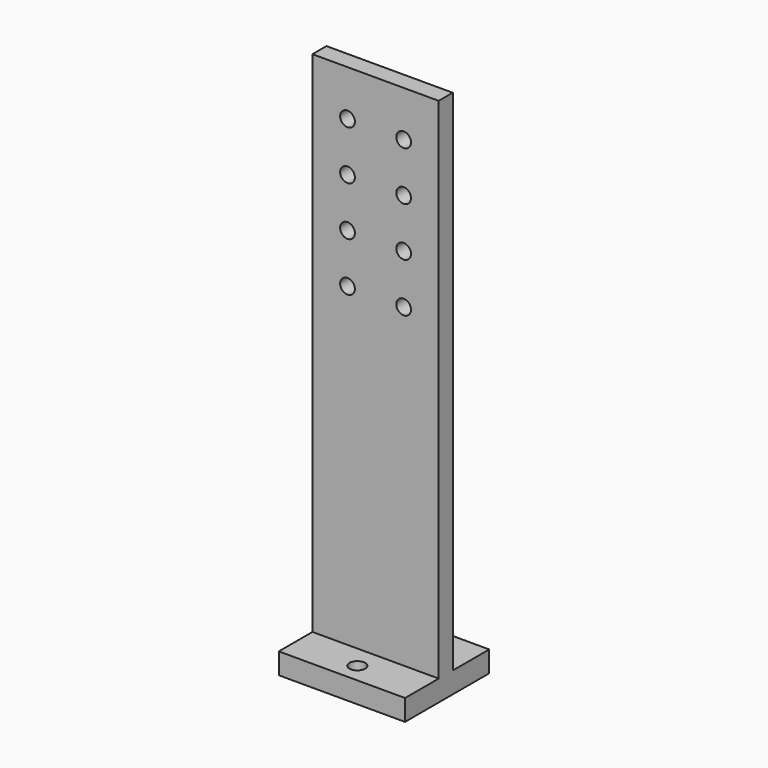
from build123d import *

# Parameters (mm, degrees)
BOX007_W          = 36
BOX007_H          = 5
BOX007_DEPTH      = 145
SKETCH001_R       = 2.1
POCKET001_DEPTH   = 5
CYLINDER003_R     = 2.25
CYLINDER003_DEPTH = 10
CYLINDER004_R     = 2.25
CYLINDER004_DEPTH = 10
BOX006_W          = 36
BOX006_H          = 30
BOX006_DEPTH      = 6


with BuildPart() as pocket001:
    # Box007 → Box007 (new body)
    with BuildSketch(Plane.XY):
        with Locations((18, 2.5)):
            Rectangle(BOX007_W, BOX007_H)
    extrude(amount=BOX007_DEPTH)

    # Sketch001 (on Face3 of Box007) → Pocket001 (cut)
    with BuildSketch(Plane.XZ):
        with Locations((10, 132)):
            Circle(SKETCH001_R)
        with Locations((26, 132)):
            Circle(SKETCH001_R)
        with Locations((10, 118)):
            Circle(SKETCH001_R)
        with Locations((26, 118)):
            Circle(SKETCH001_R)
        with Locations((10, 104)):
            Circle(SKETCH001_R)
        with Locations((26, 104)):
            Circle(SKETCH001_R)
        with Locations((10, 90)):
            Circle(SKETCH001_R)
        with Locations((26, 90)):
            Circle(SKETCH001_R)
    extrude(amount=-POCKET001_DEPTH, mode=Mode.SUBTRACT)


with BuildPart() as cilindro003:
    # Cylinder003 → Cylinder003 (new body)
    with BuildSketch(Plane(origin=(18, 11.5, -8), x_dir=(1, 0, 0), z_dir=(0, 0, 1))):
        Circle(CYLINDER003_R)
    extrude(amount=CYLINDER003_DEPTH)


with BuildPart() as cilindro004:
    # Cylinder004 → Cylinder004 (new body)
    with BuildSketch(Plane(origin=(18, -6.5, -8), x_dir=(1, 0, 0), z_dir=(0, 0, 1))):
        Circle(CYLINDER004_R)
    extrude(amount=CYLINDER004_DEPTH)


with BuildPart() as obj1:
    # Box006 → Box006 (new body)
    with BuildSketch(Plane(origin=(0, -12, -6), x_dir=(1, 0, 0), z_dir=(0, 0, 1))):
        with Locations((18, 15)):
            Rectangle(BOX006_W, BOX006_H)
    extrude(amount=BOX006_DEPTH)

    # Cut003001005: cut Cilindro004
    add(cilindro004.part, mode=Mode.SUBTRACT)

    # Cut003001006: cut Cilindro003
    add(cilindro003.part, mode=Mode.SUBTRACT)

    # Fusion001002018: union Pocket001
    add(pocket001.part)


solid = obj1.part
